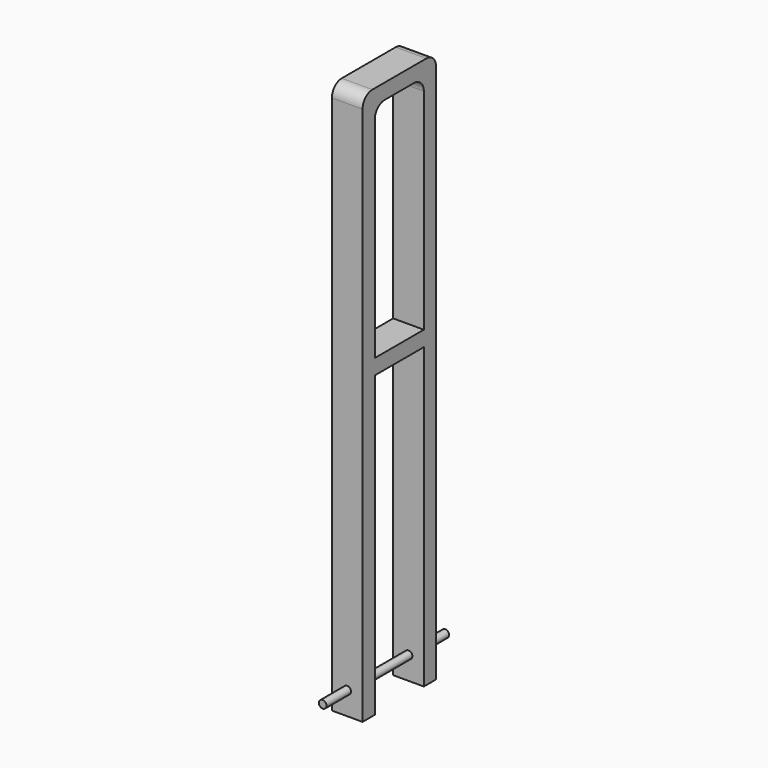
from build123d import *

# Parameters (mm, degrees)
F1_DEPTH = 6.35
F2_R     = 5.08
F3_W     = 12.7
F3_H     = 6.35
F4_DEPTH = 12.7
F3_R     = 1.5875
F5_DEPTH = 127
F6_DEPTH = 31.75


with BuildPart() as f1:
    # F0 (on Right) → F1 (new body, symmetric)
    with BuildSketch(Plane.YZ):
        Polygon((-19.05, 0), (-12.7, 0), (-12.7, 222.25), (12.7, 222.25), (12.7, 0), (19.05, 0), (19.05, 228.6), (12.7, 228.6), (-12.7, 228.6), (-19.05, 228.6), align=None)
    extrude(amount=F1_DEPTH, both=True)

    # F2
    f2_edges = [f1.edges().sort_by_distance(p)[0] for p in [
        (0, -12.7, 222.25),
        (0, 12.7, 222.25),
        (0, -19.05, 228.6),
        (0, 19.05, 228.6),
    ]]
    fillet(f2_edges, radius=F2_R)

    # F3 (on Front) → F4 (join, symmetric)
    with BuildSketch(Plane.XZ):
        with Locations((0, 127)):
            Rectangle(F3_W, F3_H)
    extrude(amount=F4_DEPTH, both=True)

    # F3 (on Front) → F5 (cut, symmetric)
    with BuildSketch(Plane.XZ):
        with Locations((0, 9.525)):
            Circle(F3_R)
    extrude(amount=F5_DEPTH, both=True, mode=Mode.SUBTRACT)

    # F3 (on Front) → F6 (join, symmetric)
    with BuildSketch(Plane.XZ):
        with Locations((0, 9.525)):
            Circle(F3_R)
    extrude(amount=F6_DEPTH, both=True)


solid = f1.part
